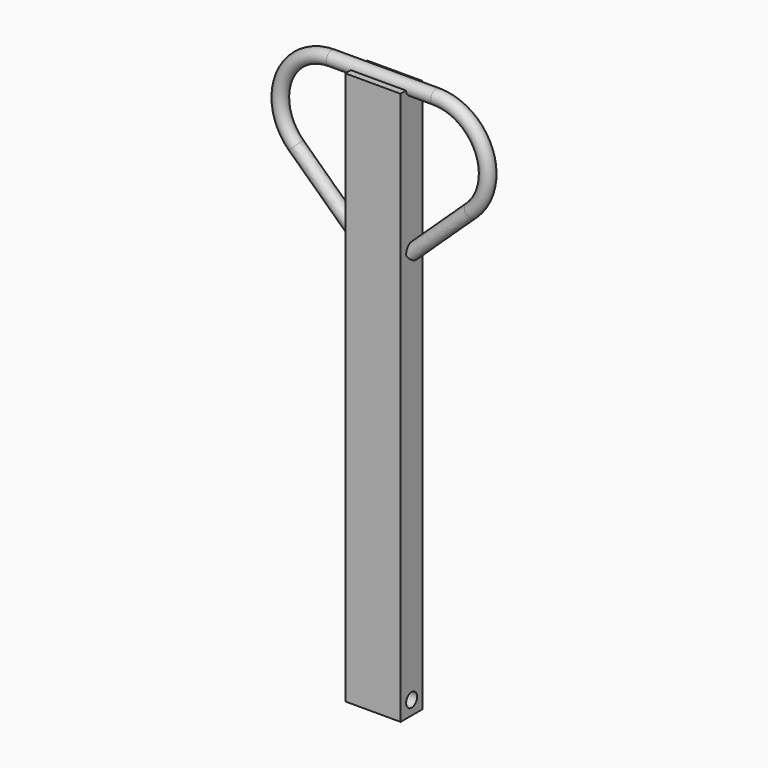
from build123d import *

# Parameters (mm, degrees)
F0_W     = 101.6
F0_H     = 1016
F1_DEPTH = 25.4
F3_R     = 12.7
F6_R     = 12.7
F7_DEPTH = 254.001


with BuildPart() as f1:
    # F0 (on Front) → F1 (new body, symmetric)
    with BuildSketch(Plane.XZ):
        Rectangle(F0_W, F0_H)
    extrude(amount=F1_DEPTH, both=True)

    # F4: sweep along a path in F2
    with BuildLine(Plane.XZ) as f4_path:
        Line((0, 508), (96.067466, 508))
        ThreePointArc((96.067466, 508), (183.85049, 448.376145), (160.782686, 344.796515))
        Line((160.782686, 344.796515), (50.8, 241.3))
    # F3 (on Right) → F4 (sweep)
    with BuildSketch(Plane.YZ):
        with Locations((0, 508)):
            Circle(F3_R)
    sweep(path=f4_path.line)

    # F5: sweep along a path in F2
    with BuildLine(Plane.XZ) as f5_path:
        Line((0, 508), (-96.067466, 508))
        ThreePointArc((-96.067466, 508), (-183.85049, 448.376145), (-160.782686, 344.796515))
        Line((-160.782686, 344.796515), (-50.8, 241.3))
    # F3 (on Right) → F5 (sweep)
    with BuildSketch(Plane.YZ):
        with Locations((0, 508)):
            Circle(F3_R)
    sweep(path=f5_path.line)

    # F6 (on face) → F7 (cut, through all)
    with BuildSketch(Plane.YZ.offset(50.8)):
        with Locations((0, -482.6)):
            Circle(F6_R)
    extrude(amount=-F7_DEPTH, mode=Mode.SUBTRACT)


solid = f1.part
